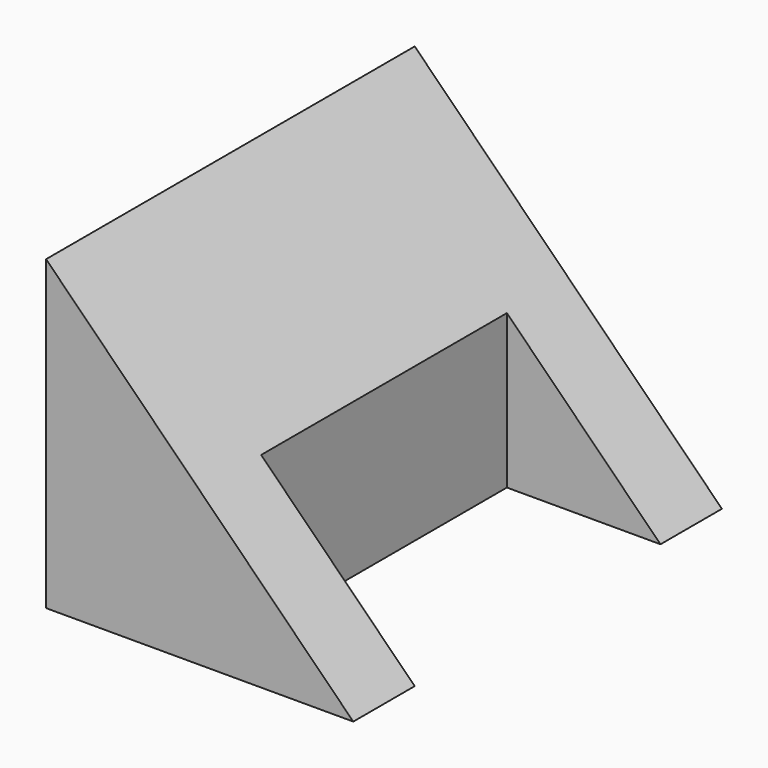
from build123d import *

# Parameters (mm, degrees)
F2_DEPTH = 38.1
F3_DEPTH = 25.4


with BuildPart() as f2:
    # F0 (on Front) → F2 (new body, symmetric)
    with BuildSketch(Plane.XZ):
        Polygon((0, 50.8), (0, 0), (50.8, 0), align=None)
    extrude(amount=F2_DEPTH, both=True)

    # F1 (on face) → F3 (cut, symmetric)
    with BuildSketch(Plane.XZ):
        Polygon((25.4, 0), (50.8, 0), (25.4, 25.4), align=None)
    extrude(amount=F3_DEPTH, both=True, mode=Mode.SUBTRACT)


solid = f2.part
